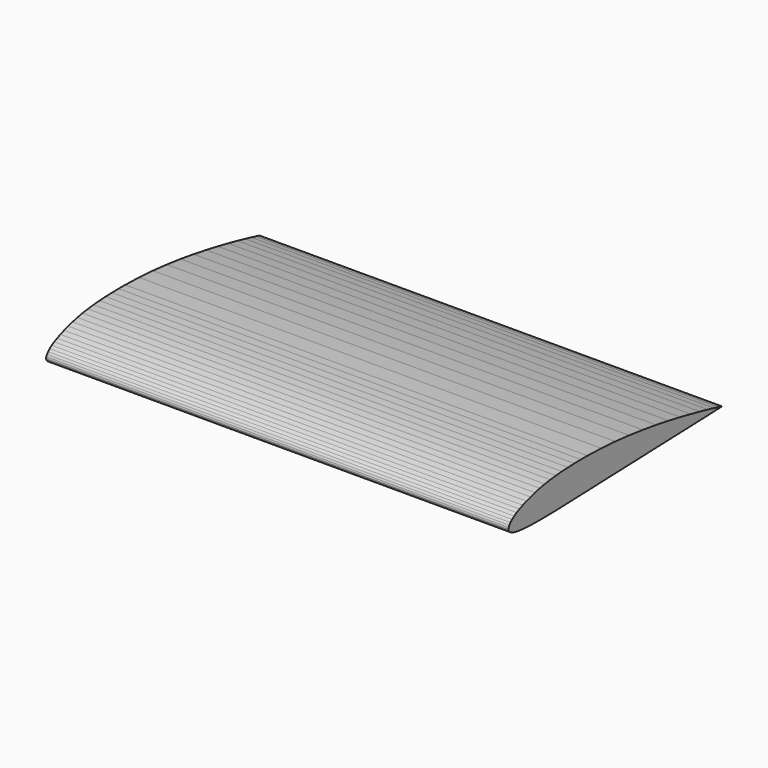
from build123d import *

# Parameters (mm, degrees)
F1_DEPTH = 254


with BuildPart() as f1:
    # F0 (on Right) → F1 (new body)
    with BuildSketch(Plane.YZ):
        Polygon((72.399652, -4.747743), (71.772374, -4.579188), (69.902299, -4.091153), (66.821634, -3.323184), (62.581714, -2.320747), (57.257264, -1.120419), (50.93622, 0.235229), (43.729961, 1.692021), (35.760152, 3.183992), (27.163039, 4.63931), (18.086705, 5.978855), (8.685022, 7.130796), (-0.879348, 8.030667), (-10.443743, 8.630082), (-19.845426, 8.899754), (-24.434165, 8.908542), (-28.921761, 8.832317), (-33.289189, 8.674049), (-37.518848, 8.43661), (-41.591713, 8.111261), (-45.488682, 7.68477), (-49.195126, 7.142505), (-52.694942, 6.4786), (-55.973447, 5.70771), (-59.015986, 4.854753), (-61.807928, 3.956355), (-64.340435, 3.038881), (-66.601823, 2.106778), (-68.580356, 1.154151), (-70.270167, 0.164897), (-71.66102, -0.861009), (-72.749943, -1.900123), (-73.531095, -2.9099), (-74.001554, -3.84495), (-74.158348, -4.678858), (-74.001554, -5.411648), (-73.531095, -6.063818), (-72.749943, -6.647129), (-71.66102, -7.167397), (-70.270167, -7.618806), (-68.580356, -7.992542), (-66.601823, -8.285658), (-64.340435, -8.509889), (-61.807928, -8.675497), (-59.015986, -8.797138), (-55.973447, -8.874811), (-52.694942, -8.908517), (-49.195126, -8.898255), (-45.488682, -8.844026), (-41.591713, -8.754643), (-37.518848, -8.635924), (-33.289189, -8.498154), (-28.921761, -8.350123), (-24.434165, -8.193303), (-19.845426, -8.033563), (-10.443743, -7.705268), (-0.879348, -7.374052), (8.685022, -7.042836), (18.086705, -6.718935), (27.163039, -6.405296), (35.760152, -6.107786), (43.729961, -5.83372), (50.93622, -5.590438), (57.257264, -5.376469), (62.581714, -5.190338), (66.821634, -5.026203), (69.902299, -4.885512), (71.772374, -4.784369), align=None)
    extrude(amount=F1_DEPTH)


solid = f1.part
